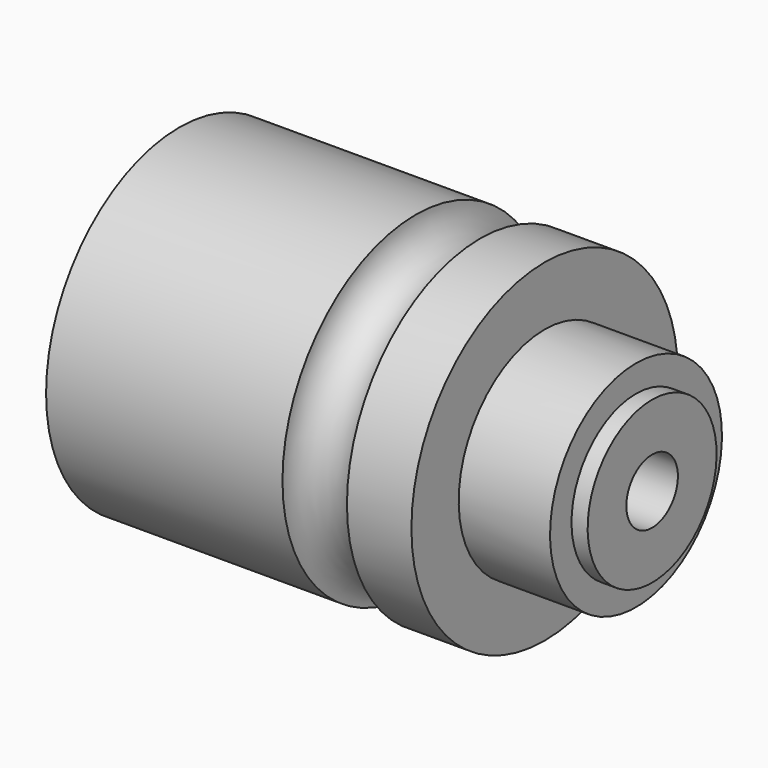
from build123d import *


with BuildPart() as f1:
    # F0 (on Front) → F1 (revolve)
    with BuildSketch(Plane.XZ):
        with BuildLine():
            Line((0, 31), (0, 0))
            Line((0, 0), (88, 0))
            Line((88, 0), (88, 15))
            Line((88, 15), (85, 15))
            Line((85, 15), (85, 20))
            Line((85, 20), (68, 20))
            Line((68, 20), (68, 31))
            Line((68, 31), (56, 31))
            ThreePointArc((56, 31), (50, 25), (44, 31))
            Line((44, 31), (0, 31))
        make_face()
    revolve(axis=Axis((113.79065, 0, 0), (1, 0, 0)))

    # F2 (on Front) → F3 (revolve, cut)
    with BuildSketch(Plane.XZ):
        Polygon((0, 25), (0, 0), (93, 0), (93, 6), (23, 6), (23, 20.5), (15, 20.5), (15, 12.5), (12, 12.5), (12, 16), (1.5, 16), (1.5, 25), align=None)
    revolve(axis=Axis((46.5, 0, 0), (-1, 0, 0)), mode=Mode.SUBTRACT)


solid = f1.part
